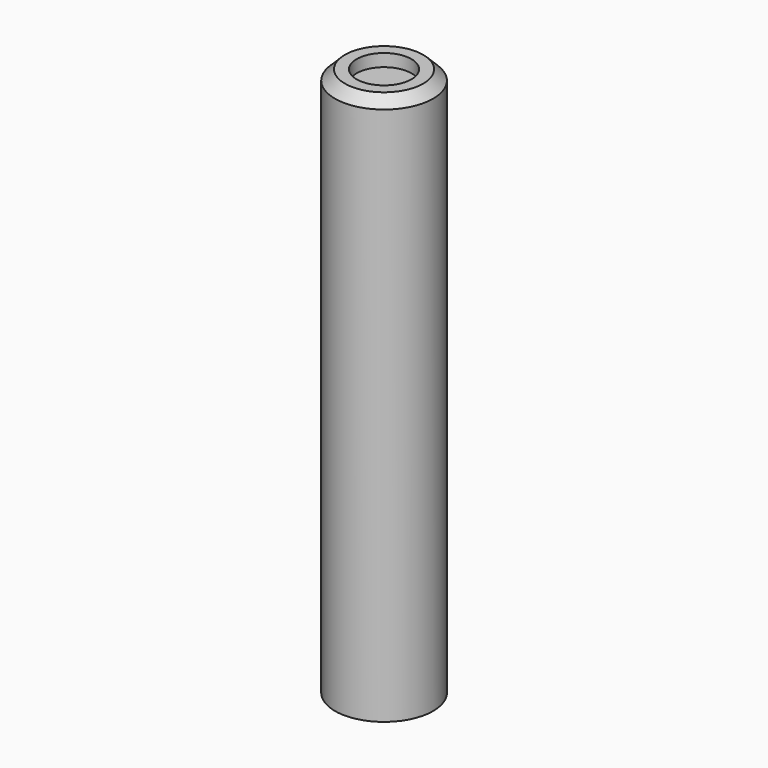
from build123d import *

# Parameters (mm, degrees)
F0_R     = 24.9809
F1_DEPTH = 279.4
F2_SIZE  = 5.08
F3_R     = 13.942679
F4_DEPTH = 6.35


with BuildPart() as f1:
    # F0 (on Top) → F1 (new body)
    with BuildSketch(Plane.XY):
        Circle(F0_R)
    extrude(amount=F1_DEPTH)

    # F2
    f2_edges = [f1.edges().sort_by_distance(p)[0] for p in [
        (-24.9809, 0, 279.4),
    ]]
    chamfer(f2_edges, length=F2_SIZE)

    # F3 (on face) → F4 (cut)
    with BuildSketch(Plane.XY.offset(279.4)):
        Circle(F3_R)
    extrude(amount=-F4_DEPTH, mode=Mode.SUBTRACT)


solid = f1.part
